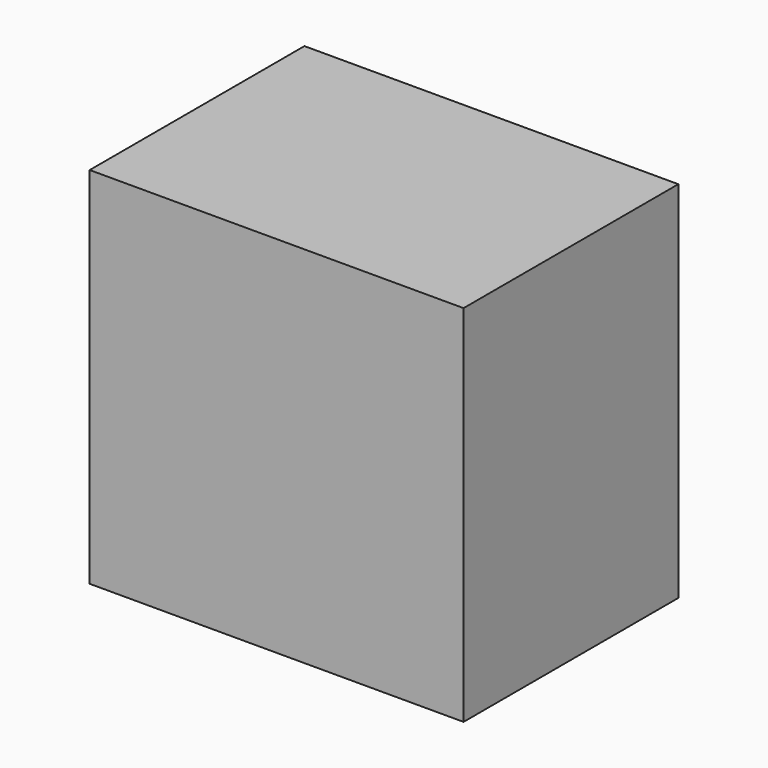
from build123d import *

# Parameters (mm, degrees)
BOX124_W     = 140
BOX124_H     = 80
BOX124_DEPTH = 190
BOX123_W     = 140
BOX123_H     = 80
BOX123_DEPTH = 180
BOX122_W     = 195
BOX122_H     = 140
BOX122_DEPTH = 190


with BuildPart() as cube096:
    # Box124 → Box124 (new body)
    with BuildSketch(Plane(origin=(220, 30, 0), x_dir=(1, 0, 0), z_dir=(0, 0, 1))):
        with Locations((70, 40)):
            Rectangle(BOX124_W, BOX124_H)
    extrude(amount=BOX124_DEPTH)


with BuildPart() as fusion024:
    # Box123 → Box123 (new body)
    with BuildSketch(Plane(origin=(30, 30, 0), x_dir=(1, 0, 0), z_dir=(0, 0, 1))):
        with Locations((70, 40)):
            Rectangle(BOX123_W, BOX123_H)
    extrude(amount=BOX123_DEPTH)

    # Fusion024: union Cube096
    add(cube096.part)


with BuildPart() as obj1:
    # Box122 → Box122 (new body)
    with BuildSketch(Plane.XY):
        with Locations((97.5, 70)):
            Rectangle(BOX122_W, BOX122_H)
    extrude(amount=BOX122_DEPTH)

    # Cut019: cut Fusion024
    add(fusion024.part, mode=Mode.SUBTRACT)


with BuildPart() as obj1_1:
    # Cut019 placement: moved
    add(obj1.part.moved(Location((740, 445, -190))))


solid = obj1_1.part
